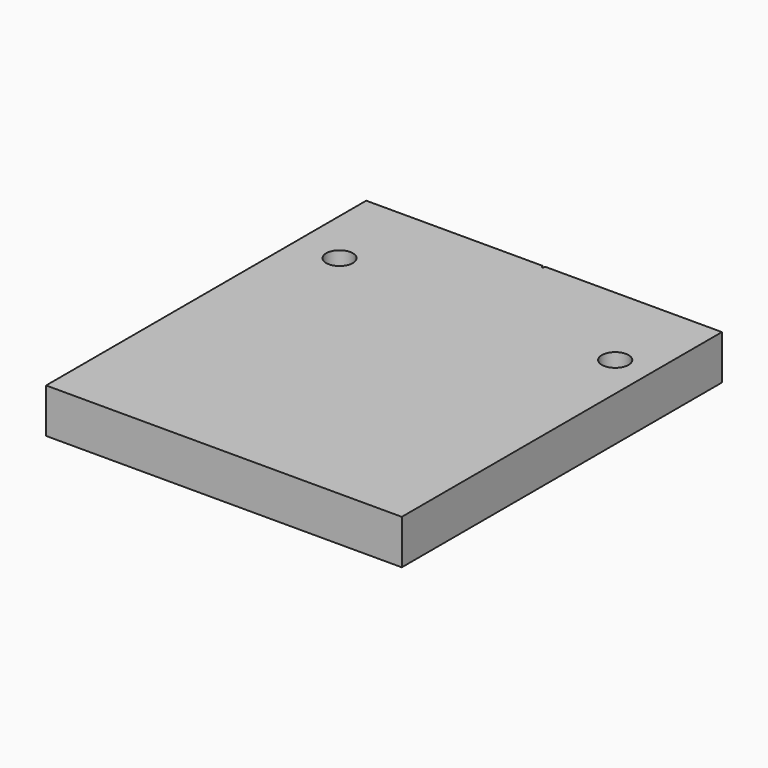
from build123d import *

# Parameters (mm, degrees)
F0_W     = 40
F0_H     = 45
F1_DEPTH = 5
F2_R     = 1.5
F3_DEPTH = 25
F5_DEPTH = 25
F7_D     = 3.3
F7_DEPTH = 5
F7_TIP   = 0.9914200214


with BuildPart() as f1:
    # F0 (on Top) → F1 (new body)
    with BuildSketch(Plane.XY):
        Rectangle(F0_W, F0_H)
    extrude(amount=F1_DEPTH)

    # F2 (on face) → F3 (cut)
    with BuildSketch(Plane.XY.offset(5)):
        with Locations((16, 12.5)):
            Circle(F2_R)
        with Locations((-15, 12.5)):
            Circle(F2_R)
    extrude(amount=-F3_DEPTH, mode=Mode.SUBTRACT)

    # F4 (on face) → F5 (cut)
    with BuildSketch(Plane.XY.offset(5)):
        Polygon((0.1732050808, 22.5), (-0.1732050808, 22.5), (0, 22.2), align=None)
    extrude(amount=-F5_DEPTH, mode=Mode.SUBTRACT)

    # F7
    with Locations(Plane(origin=(0, 22.5, 0), x_dir=(-1, 0, 0), z_dir=(0, 1, 0))):
        with Locations((-16, 2.5), (16, 2.5)):
            Hole(F7_D / 2, depth=F7_DEPTH)
            with Locations((0, 0, -(F7_DEPTH + F7_TIP / 2))):  # 118° drill point
                Cone(0, F7_D / 2, F7_TIP, mode=Mode.SUBTRACT)


solid = f1.part
